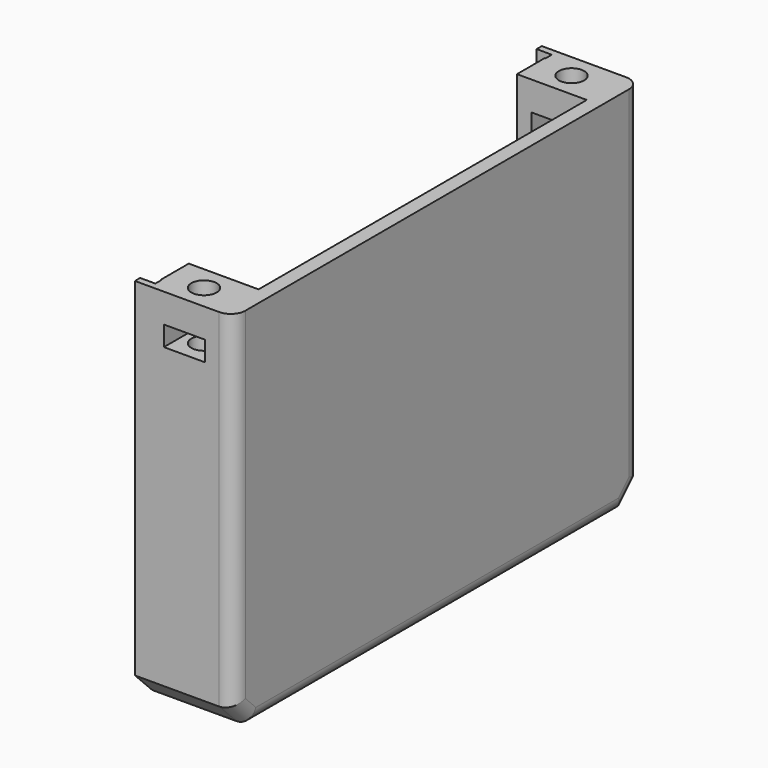
from build123d import *

# Parameters (mm, degrees)
PAD039_DEPTH         = 11.65
POCKET045_DEPTH      = 2.101
PAD_DEPTH            = 2
SKETCH117_W          = 9.65
SKETCH117_H          = 4.8
PAD041_DEPTH         = 46
SKETCH120_R          = 1.75
POCKET048_DEPTH      = 46.001
SKETCH115_R          = 1.75
POCKET046_DEPTH      = 5.001
SKETCH116_R          = 3
POCKET047_DEPTH      = 2.951
SKETCH118_W          = 5.65
SKETCH118_H          = 2.75
POCKET049_DEPTH      = 35.151
POCKET049_DEPTH_BACK = 35.151
FILLET_R             = 2


with BuildPart() as part:
    # Sketch119 → Pad039 (new body)
    with BuildSketch(Plane.YZ.offset(-21.698)):
        with BuildLine():
            ThreePointArc((-33.15, 1), (-32.857107, 0.292893), (-32.15, 0))
            Line((-32.15, 0), (32.15, 0))
            ThreePointArc((32.15, 0), (32.857107, 0.292893), (33.15, 1))
            Line((33.15, 46), (33.15, 1))
            Line((33.15, 46), (35.15, 46))
            Line((35.15, 46), (35.15, -2))
            Line((35.15, -2), (32.15, -5))
            Line((32.15, -5), (-32.15, -5))
            Line((-32.15, -5), (-35.15, -2))
            Line((-35.15, -2), (-35.15, 46))
            Line((-35.15, 46), (-33.15, 46))
            Line((-33.15, 46), (-33.15, 1))
        make_face()
    extrude(amount=PAD039_DEPTH)

    # Sketch114 → Pocket045 (cut, through all)
    with BuildSketch(Plane.YZ.offset(-19.598)):
        with BuildLine():
            Line((-34.25, 46), (-34.25, 1))
            ThreePointArc((-34.25, 1), (-33.634924, -0.484924), (-32.15, -1.1))
            Line((-32.15, -1.1), (32.15, -1.1))
            ThreePointArc((32.15, -1.1), (33.634924, -0.484924), (34.25, 1))
            Line((34.25, 1), (34.25, 46))
            Line((34.25, 46), (33.15, 46))
            Line((33.15, 46), (33.15, 1))
            ThreePointArc((32.15, 0), (32.857107, 0.292893), (33.15, 1))
            Line((-32.15, 0), (32.15, 0))
            ThreePointArc((-33.15, 1), (-32.857107, 0.292893), (-32.15, 0))
            Line((-33.15, 46), (-33.15, 1))
            Line((-34.25, 46), (-33.15, 46))
        make_face()
    extrude(amount=-POCKET045_DEPTH, mode=Mode.SUBTRACT)

    # Sketch123 → Pad (join)
    with BuildSketch(Plane.YZ.offset(-10.048)):
        Polygon((-35.15, 46), (-35.15, -2), (-32.15, -5), (32.15, -5), (35.15, -2), (35.15, 46), align=None)
    extrude(amount=PAD_DEPTH)

    # Sketch117 → Pad041 (join)
    with BuildSketch(Plane.XY):
        with Locations((-14.873, 30.75)):
            Rectangle(SKETCH117_W, SKETCH117_H)
        with Locations((-14.873, -30.75)):
            Rectangle(SKETCH117_W, SKETCH117_H)
    extrude(amount=PAD041_DEPTH)

    # Sketch120 → Pocket048 (cut, through all)
    with BuildSketch(Plane.XY):
        with Locations((-14.873, 31.75)):
            Circle(SKETCH120_R)
        with Locations((-14.873, -31.75)):
            Circle(SKETCH120_R)
    extrude(amount=POCKET048_DEPTH, mode=Mode.SUBTRACT)

    # Sketch115 → Pocket046 (cut, through all)
    with BuildSketch(Plane.XY):
        with Locations((-15.348, 15.621)):
            Circle(SKETCH115_R)
        with Locations((-15.348, -19.431)):
            Circle(SKETCH115_R)
    extrude(amount=-POCKET046_DEPTH, mode=Mode.SUBTRACT)

    # Sketch116 → Pocket047 (cut, through all)
    with BuildSketch(Plane.XY.offset(-2.05)):
        with Locations((-15.348, 15.621)):
            Circle(SKETCH116_R)
        with Locations((-15.348, -19.431)):
            Circle(SKETCH116_R)
    extrude(amount=-POCKET047_DEPTH, mode=Mode.SUBTRACT)

    # Sketch118 → Pocket049 (cut, two sides)
    with BuildSketch(Plane.XZ) as pocket049_sk:
        with Locations((-14.873, 40.625)):
            Rectangle(SKETCH118_W, SKETCH118_H)
    extrude(amount=-POCKET049_DEPTH, mode=Mode.SUBTRACT)
    extrude(pocket049_sk.sketch, amount=POCKET049_DEPTH_BACK, mode=Mode.SUBTRACT)

    # Fillet
    fillet_edges = [part.edges().sort_by_distance(p)[0] for p in [
        (-8.048, -35.15, 22),
        (-8.048, -33.65, -3.5),
        (-8.048, 0, -5),
        (-8.048, 33.65, -3.5),
        (-8.048, 35.15, 22),
    ]]
    fillet(fillet_edges, radius=FILLET_R)


solid = part.part
